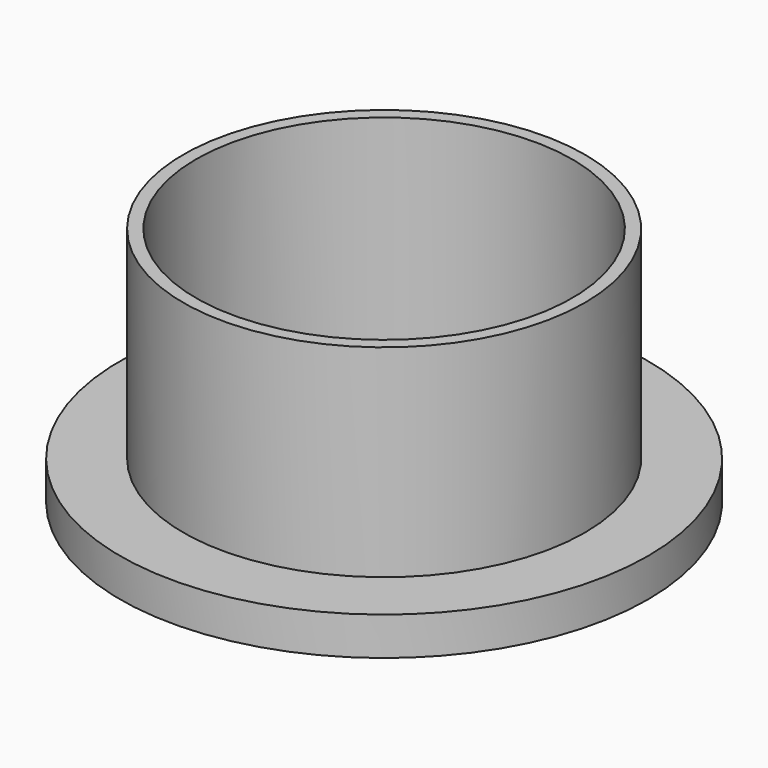
from build123d import *

# Parameters (mm, degrees)
F0_R     = 40.671356
F1_DEPTH = 48.746474
F3_D     = 76.2
F4_R     = 53.479335
F5_DEPTH = 7.750219


with BuildPart() as f1:
    # F0 (on Top) → F1 (new body)
    with BuildSketch(Plane.XY):
        Circle(F0_R)
    extrude(amount=F1_DEPTH)

    # F3 (through all)
    with Locations(Plane.XY.offset(48.746474)):
        with Locations((0, 0)):
            Hole(F3_D / 2)

    # F4 (on Top) → F5 (join)
    with BuildSketch(Plane.XY):
        Circle(F4_R)
    extrude(amount=F5_DEPTH)


solid = f1.part
